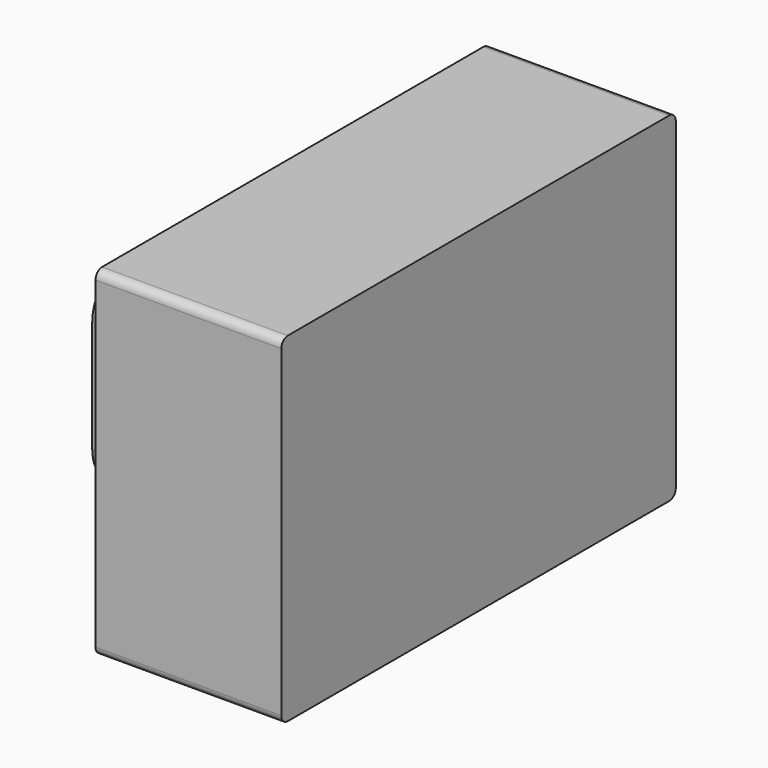
from build123d import *

# Parameters (mm, degrees)
F0_W     = 60
F0_H     = 41.3
F1_DEPTH = 22.6
F2_R     = 1
F3_W     = 25.77
F3_H     = 23.56
F3_R     = 9
F4_DEPTH = 2
F5_R     = 5


with BuildPart() as f1:
    # F0 (on Right) → F1 (new body)
    with BuildSketch(Plane.YZ):
        with Locations((30, 20.65)):
            Rectangle(F0_W, F0_H)
    extrude(amount=F1_DEPTH)

    # F2
    f2_edges = [f1.edges().sort_by_distance(p)[0] for p in [
        (11.3, 60, 41.3),
        (11.3, 0, 41.3),
        (11.3, 0, 0),
        (11.3, 60, 0),
    ]]
    fillet(f2_edges, radius=F2_R)

    # F3 (on face) → F4 (join)
    with BuildSketch(Plane(origin=(0, 0, 0), x_dir=(0, -1, 0), z_dir=(-1, 0, 0))):
        with Locations((-14.885, 27.52)):
            Rectangle(F3_W, F3_H)
        with Locations((-14.885, 27.52)):
            Circle(F3_R, mode=Mode.SUBTRACT)
    extrude(amount=F4_DEPTH)

    # F5
    f5_edges = [f1.edges().sort_by_distance(p)[0] for p in [
        (-1, 2, 39.3),
        (-1, 2, 15.74),
        (-1, 27.77, 15.74),
        (-1, 27.77, 39.3),
    ]]
    fillet(f5_edges, radius=F5_R)


solid = f1.part
